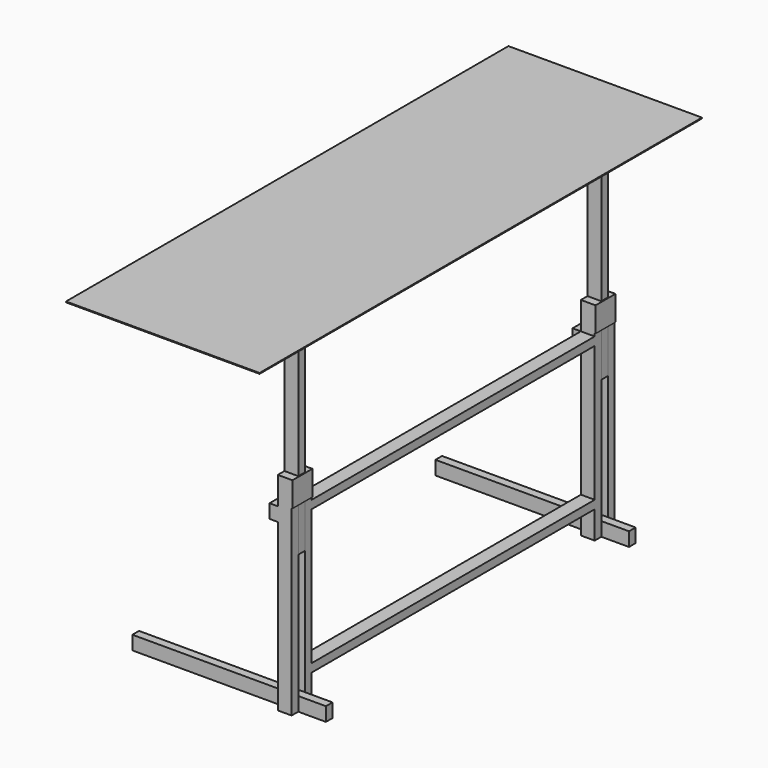
from build123d import *

# Parameters (mm, degrees)
SKETCH001_W  = 30
SKETCH001_H  = 50
PAD_DEPTH    = 700
SKETCH002_W  = 750
SKETCH002_H  = 50
PAD001_DEPTH = 30
SKETCH003_W  = 750
SKETCH003_H  = 50
PAD002_DEPTH = 30
SKETCH004_W  = 30
SKETCH004_H  = 50
PAD003_DEPTH = 1280
SKETCH005_W  = 750
SKETCH005_H  = 50
PAD004_DEPTH = 30
SKETCH006_W  = 50
SKETCH006_H  = 700
PAD005_DEPTH = 30
SKETCH007_W  = 750
SKETCH007_H  = 50
PAD006_DEPTH = 30
SKETCH008_W  = 90
SKETCH008_H  = 50
PAD007_DEPTH = 30
SKETCH009_W  = 90
SKETCH009_H  = 90
PAD008_DEPTH = 3
SKETCH010_W  = 50
SKETCH010_H  = 30
PAD009_DEPTH = 700
SKETCH011_W  = 50
SKETCH011_H  = 1800
PAD010_DEPTH = 30
SKETCH012_W  = 50
SKETCH012_H  = 30
PAD011_DEPTH = 700
SKETCH013_W  = 50
SKETCH013_H  = 30
PAD012_DEPTH = 400
SKETCH014_W  = 1800
SKETCH014_H  = 30
PAD013_DEPTH = 50
SKETCH015_W  = 700
SKETCH015_H  = 2000
PAD014_DEPTH = 3


with BuildPart() as obj1:
    # Sketch001 → Pad (new body)
    with BuildSketch(Plane.YZ):
        with Locations((-395, 25)):
            Rectangle(SKETCH001_W, SKETCH001_H)
    extrude(amount=-PAD_DEPTH)

    # Sketch002 (on Face4 of Pad) → Pad001 (join)
    with BuildSketch(Plane(origin=(0, -410, 0), x_dir=(0, 0, -1), z_dir=(0, -1, 0))):
        with Locations((-375, -125)):
            Rectangle(SKETCH002_W, SKETCH002_H)
    extrude(amount=PAD001_DEPTH)

    # Sketch003 (on Face5 of Pad001) → Pad002 (join)
    with BuildSketch(Plane.ZX.offset(-380)):
        with Locations((375, -125)):
            Rectangle(SKETCH003_W, SKETCH003_H)
    extrude(amount=PAD002_DEPTH)

    # Sketch004 (on Face18 of Pad002) → Pad003 (join)
    with BuildSketch(Plane(origin=(0, -440, 0), x_dir=(0, 0, -1), z_dir=(0, -1, 0))):
        with Locations((-115, -125)):
            Rectangle(SKETCH004_W, SKETCH004_H)
        with Locations((-635, -125)):
            Rectangle(SKETCH004_W, SKETCH004_H)
    extrude(amount=PAD003_DEPTH)

    # Sketch005 (on Face29 of Pad003) → Pad004 (join)
    with BuildSketch(Plane(origin=(0, -1720, 0), x_dir=(0, 0, -1), z_dir=(0, -1, 0))):
        with Locations((-375, -125)):
            Rectangle(SKETCH005_W, SKETCH005_H)
    extrude(amount=PAD004_DEPTH)

    # Sketch006 (on Face9 of Pad004) → Pad005 (join)
    with BuildSketch(Plane(origin=(0, -1750, 0), x_dir=(0, 0, -1), z_dir=(0, -1, 0))):
        with Locations((-25, -350)):
            Rectangle(SKETCH006_W, SKETCH006_H)
    extrude(amount=PAD005_DEPTH)

    # Sketch007 (on Face24 of Pad005) → Pad006 (join)
    with BuildSketch(Plane(origin=(0, -1780, 0), x_dir=(0, 0, -1), z_dir=(0, -1, 0))):
        with Locations((-375, -125)):
            Rectangle(SKETCH007_W, SKETCH007_H)
    extrude(amount=PAD006_DEPTH)

    # Sketch008 (on Face50 of Pad006) → Pad007 (join)
    with BuildSketch(Plane(origin=(-150, 0, 0), x_dir=(0, 1, 0), z_dir=(-1, 0, 0))):
        with Locations((-1765, -625)):
            Rectangle(SKETCH008_W, SKETCH008_H)
        with Locations((-395, -625)):
            Rectangle(SKETCH008_W, SKETCH008_H)
    extrude(amount=PAD007_DEPTH)

    # Sketch009 (on Face45 of Pad007) → Pad008 (join)
    with BuildSketch(Plane.YZ.offset(-100)):
        with Locations((-1765, 705)):
            Rectangle(SKETCH009_W, SKETCH009_H)
        with Locations((-395, 705)):
            Rectangle(SKETCH009_W, SKETCH009_H)
    extrude(amount=PAD008_DEPTH)


with BuildPart() as obj2:
    # Sketch010 → Pad009 (new body)
    with BuildSketch(Plane.XY.offset(500)):
        with Locations((-125, -395)):
            Rectangle(SKETCH010_W, SKETCH010_H)
    extrude(amount=PAD009_DEPTH)

    # Sketch011 (on Face6 of Pad009) → Pad010 (join)
    with BuildSketch(Plane.XY.offset(1200)):
        with Locations((-125, -1080)):
            Rectangle(SKETCH011_W, SKETCH011_H)
    extrude(amount=PAD010_DEPTH)

    # Sketch012 (on Face7 of Pad010) → Pad011 (join)
    with BuildSketch(Plane(origin=(0, 0, 1200), x_dir=(1, 0, 0), z_dir=(0, 0, -1))):
        with Locations((-125, 1765)):
            Rectangle(SKETCH012_W, SKETCH012_H)
    extrude(amount=PAD011_DEPTH)

    # Sketch013 (on Face2 of Pad011) → Pad012 (join)
    with BuildSketch(Plane(origin=(-150, 0, 0), x_dir=(0, -1, 0), z_dir=(-1, 0, 0))):
        with Locations((385, 1215)):
            Rectangle(SKETCH013_W, SKETCH013_H)
        with Locations((1775, 1215)):
            Rectangle(SKETCH013_W, SKETCH013_H)
    extrude(amount=PAD012_DEPTH)

    # Sketch014 (on Face18 of Pad012) → Pad013 (join)
    with BuildSketch(Plane(origin=(-550, 0, 0), x_dir=(0, -1, 0), z_dir=(-1, 0, 0))):
        with Locations((1080, 1215)):
            Rectangle(SKETCH014_W, SKETCH014_H)
    extrude(amount=PAD013_DEPTH)

    # Sketch015 (on Face1 of Pad013) → Pad014 (join)
    with BuildSketch(Plane.XY.offset(1230)):
        with Locations((-350, -1080)):
            Rectangle(SKETCH015_W, SKETCH015_H)
    extrude(amount=PAD014_DEPTH)


solid = Compound([obj1.part, obj2.part])
